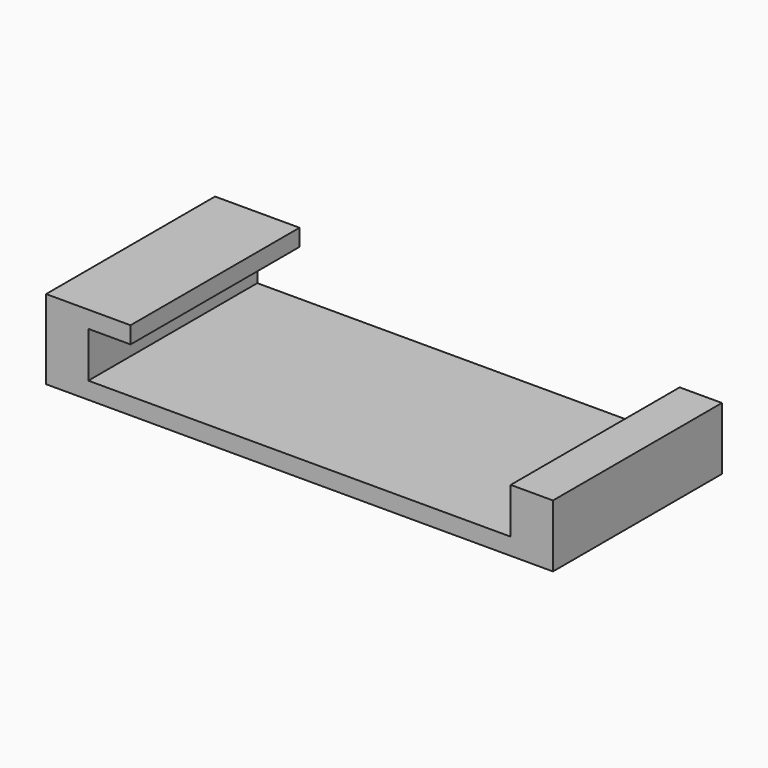
from build123d import *

# Parameters (mm, degrees)
F0_W     = 6.35
F0_H     = 31.75
F0_W_2   = 63.5
F1_DEPTH = 2.54
F2_DEPTH = 9.398
F3_W     = 6.35
F3_H     = 31.75
F4_DEPTH = 2.54


with BuildPart() as f1:
    # F0 (on Top) → F1 (new body)
    with BuildSketch(Plane.XY):
        with Locations((-34.925, 15.875)):
            Rectangle(F0_W, F0_H)
        with Locations((0, 15.875)):
            Rectangle(F0_W_2, F0_H)
        with Locations((34.925, 15.875)):
            Rectangle(F0_W, F0_H)
    extrude(amount=F1_DEPTH)

    # F0 (on Top) → F2 (join)
    with BuildSketch(Plane.XY):
        with Locations((-34.925, 15.875)):
            Rectangle(F0_W, F0_H)
        with Locations((34.925, 15.875)):
            Rectangle(F0_W, F0_H)
    extrude(amount=F2_DEPTH)

    # F3 (on face) → F4 (join)
    with BuildSketch(Plane.XY.offset(9.398)):
        with Locations((-28.575, 15.875)):
            Rectangle(F3_W, F3_H)
        with Locations((-34.925, 15.875)):
            Rectangle(F3_W, F3_H)
    extrude(amount=F4_DEPTH)


solid = f1.part
